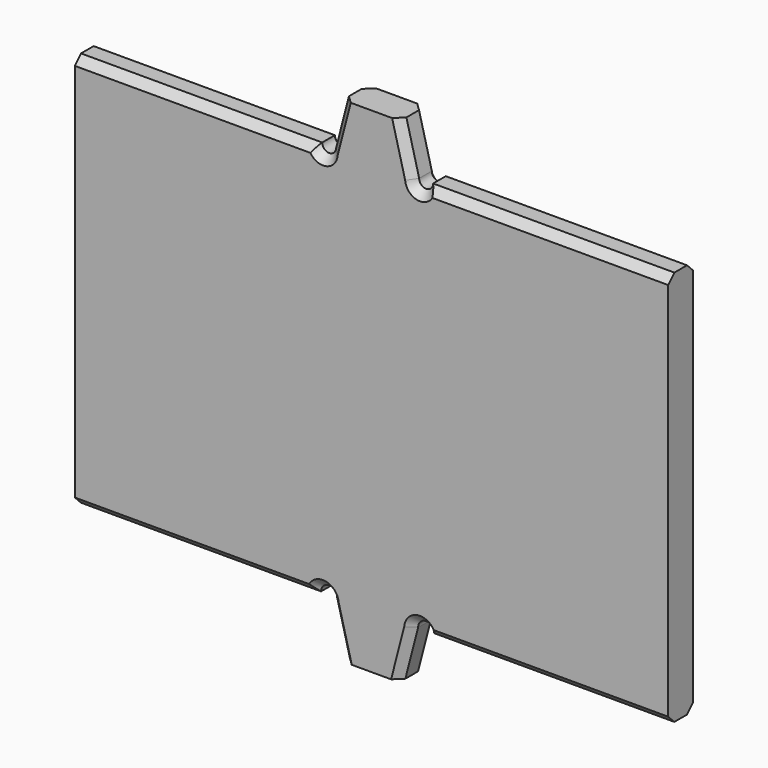
from build123d import *

# Parameters (mm, degrees)
F1_DEPTH = 3.175
F2_SIZE  = 0.7874
F3_SIZE  = 0.7874
F4_SIZE  = 0.7874
F5_SIZE  = 0.7874
F6_SIZE  = 0.7874
F7_SIZE  = 0.7874


with BuildPart() as f1:
    # F0 (on Front) → F1 (new body)
    with BuildSketch(Plane.XZ):
        with BuildLine():
            Line((-30, 19.711864), (-30, -20.288136))
            Line((-30, -20.288136), (-5.722361, -20.288136))
            ThreePointArc((-5.722361, -20.288136), (-4.909056, -19.47483), (-4.09575, -20.288136))
            Line((-4.09575, -20.288136), (-2.802662, -25.288136))
            Line((-2.802662, -25.288136), (2.802662, -25.288136))
            Line((2.802662, -25.288136), (4.09575, -20.288136))
            ThreePointArc((4.09575, -20.288136), (4.909056, -19.47483), (5.722361, -20.288136))
            Line((5.722361, -20.288136), (30, -20.288136))
            Line((30, -20.288136), (30, -19.711864))
            Line((30, -19.711864), (30, 19.711864))
            Line((30, 19.711864), (5.60832, 19.711864))
            ThreePointArc((5.60832, 19.711864), (4.9022, 19.005744), (4.19608, 19.711864))
            Line((4.19608, 19.711864), (2.902992, 24.711864))
            Line((2.902992, 24.711864), (-2.902992, 24.711864))
            Line((-2.902992, 24.711864), (-4.19608, 19.711864))
            ThreePointArc((-4.19608, 19.711864), (-4.9022, 19.005744), (-5.60832, 19.711864))
            Line((-5.60832, 19.711864), (-30, 19.711864))
        make_face()
    extrude(amount=F1_DEPTH)

    # F2
    f2_edges = [f1.edges().sort_by_distance(p)[0] for p in [
        (-17.861181, 0, -20.288136),
        (17.861181, 0, -20.288136),
        (17.861181, -3.175, -20.288136),
        (-17.861181, -3.175, -20.288136),
    ]]
    chamfer(f2_edges, length=F2_SIZE)

    # F3
    f3_edges = [f1.edges().sort_by_distance(p)[0] for p in [
        (3.549536, 0, 22.211864),
        (4.9022, 0, 19.005744),
        (-3.549536, 0, 22.211864),
        (-4.9022, 0, 19.005744),
    ]]
    chamfer(f3_edges, length=F3_SIZE)

    # F4
    f4_edges = [f1.edges().sort_by_distance(p)[0] for p in [
        (4.9022, -3.175, 19.005744),
        (3.549536, -3.175, 22.211864),
        (-3.549536, -3.175, 22.211864),
        (-4.9022, -3.175, 19.005744),
    ]]
    chamfer(f4_edges, length=F4_SIZE)

    # F5
    f5_edges = [f1.edges().sort_by_distance(p)[0] for p in [
        (18.19786, -3.175, 19.711864),
        (-18.19786, -3.175, 19.711864),
        (18.19786, 0, 19.711864),
        (-18.19786, 0, 19.711864),
    ]]
    chamfer(f5_edges, length=F5_SIZE)

    # F6
    f6_edges = [f1.edges().sort_by_distance(p)[0] for p in [
        (3.449206, -3.175, -22.788136),
        (4.411136, -3.175, -19.645063),
        (-3.449206, -3.175, -22.788136),
        (-4.411136, -3.175, -19.645063),
    ]]
    chamfer(f6_edges, length=F6_SIZE)

    # F7
    f7_edges = [f1.edges().sort_by_distance(p)[0] for p in [
        (3.449206, 0, -22.788136),
        (4.411136, 0, -19.645063),
        (-3.449206, 0, -22.788136),
        (-4.411136, 0, -19.645063),
    ]]
    chamfer(f7_edges, length=F7_SIZE)


solid = f1.part
